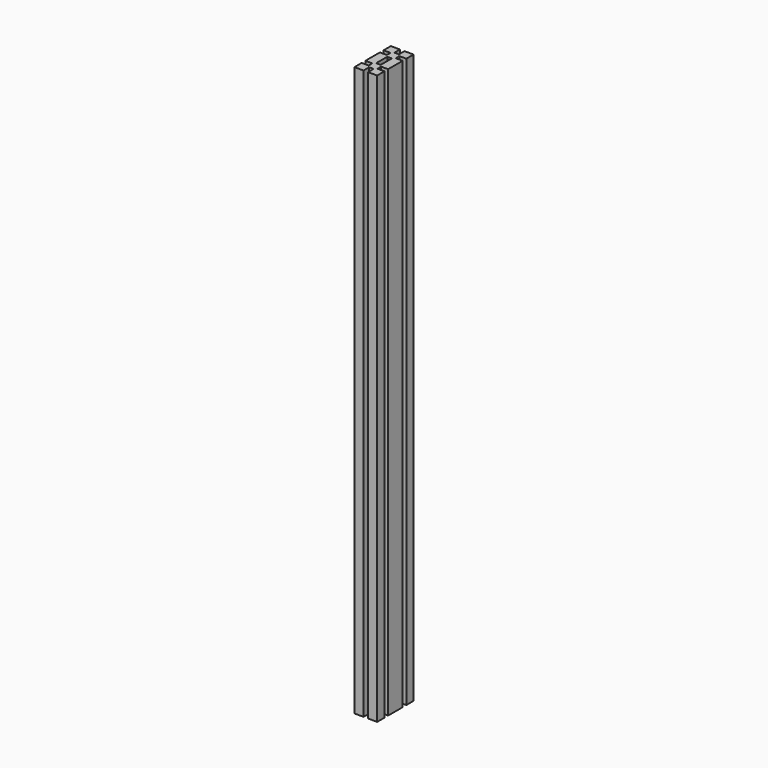
from build123d import *

# Parameters (mm, degrees)
F1_DEPTH = 1000


with BuildPart() as f1:
    # F0 (on Top) → F1 (new body)
    with BuildSketch(Plane.XY):
        Polygon((0, 16), (0, 0), (16, 0), (16, 12.25), (24, 12.25), (24, 0), (40, 0), (40, 16), (27.75, 16), (27.75, 24), (40, 24), (40, 40), (24, 40), (24, 27.75), (16, 27.75), (16, 40), (0, 40), (0, 24), (12.25, 24), (12.25, 16), align=None)
        Polygon((16, 0), (0, 0), (0, -16), (12.25, -16), (12.25, -24), (0, -24), (0, -40), (16, -40), (16, -27.75), (24, -27.75), (24, -40), (40, -40), (40, -24), (27.75, -24), (27.75, -16), (40, -16), (40, 0), (24, 0), (24, -12.25), (16, -12.25), align=None)
    extrude(amount=F1_DEPTH)


solid = f1.part
